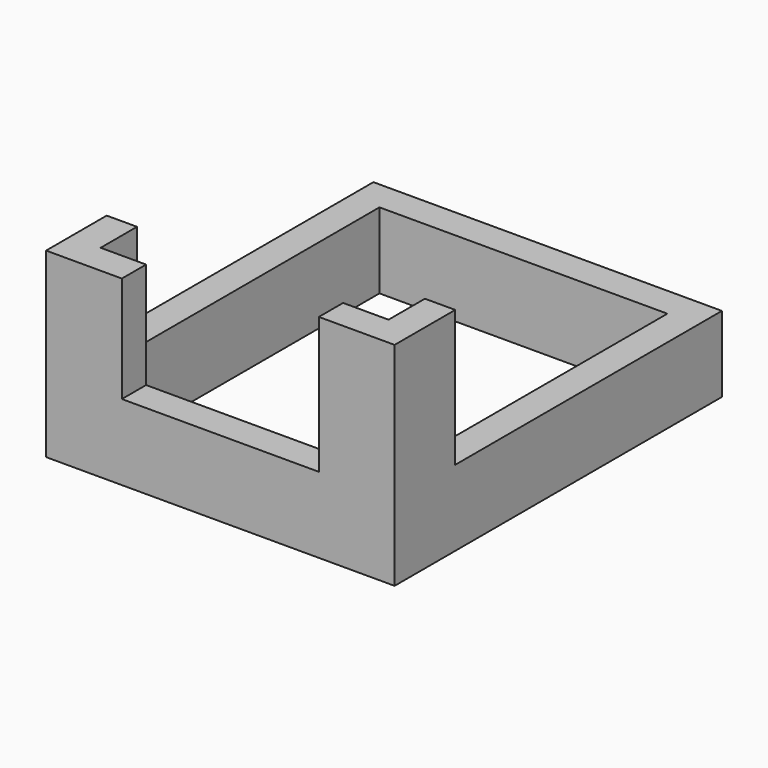
from build123d import *

# Parameters (mm, degrees)
F0_W     = 23
F0_H     = 27
F0_W_2   = 19
F0_H_2   = 23
F1_DEPTH = 5
F3_DEPTH = 7
F5_DEPTH = 9


with BuildPart() as f1:
    # F0 (on Top) → F1 (new body)
    with BuildSketch(Plane.XY):
        with Locations((9.5, 11.5)):
            Rectangle(F0_W, F0_H)
        with Locations((9.5, 11.5)):
            Rectangle(F0_W_2, F0_H_2, mode=Mode.SUBTRACT)
    extrude(amount=F1_DEPTH)

    # F2 (on face) → F3 (join)
    with BuildSketch(Plane.XY.offset(5)):
        Polygon((3, 0), (0, 0), (0, 3), (-2, 3), (-2, -2), (3, -2), align=None)
    extrude(amount=F3_DEPTH)

    # F4 (on face) → F5 (join)
    with BuildSketch(Plane.XY.offset(5)):
        Polygon((19, 3), (19, 0), (16, 0), (16, -2), (21, -2), (21, 3), align=None)
    extrude(amount=F5_DEPTH)


solid = f1.part
